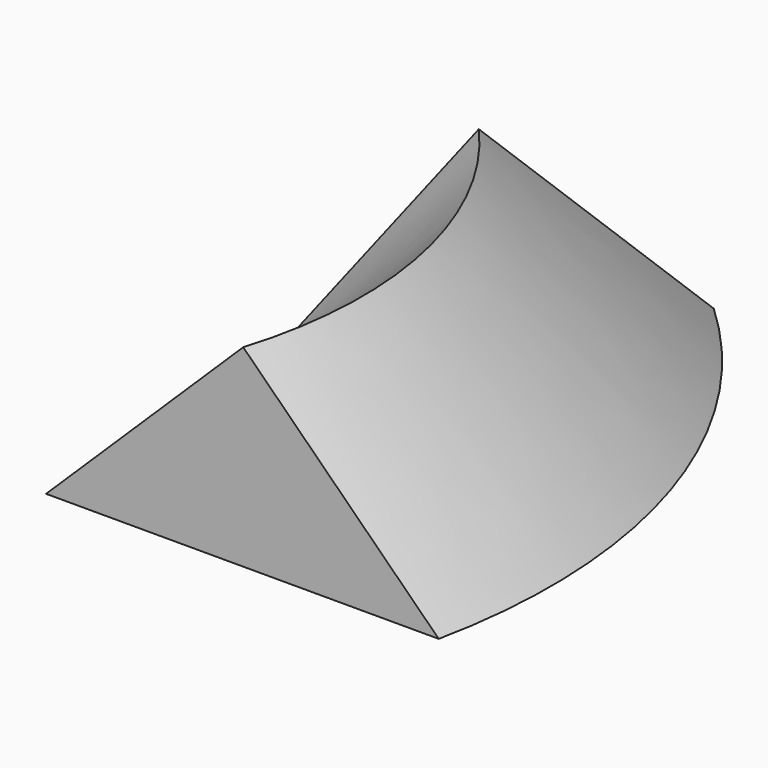
from build123d import *


with BuildPart() as f2:
    # F2: sweep along a path in F1
    with BuildLine(Plane.XY) as f2_path:
        ThreePointArc((0, 0), (1.769273, 39.342313), (-16.031148, 74.471973))
    # F0 (on Front) → F2 (sweep)
    with BuildSketch(Plane.XZ):
        Polygon((36.142953, 0), (0, 35.705738), (-36.434427, 0), align=None)
    sweep(path=f2_path.line)


solid = f2.part
